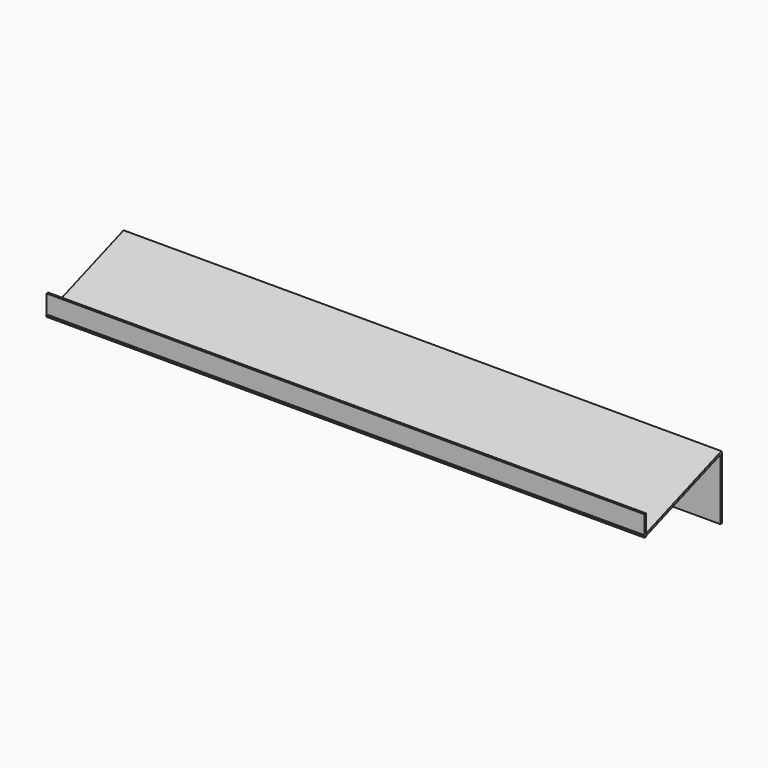
from build123d import *

# Parameters (mm, degrees)
F2_W     = 290
F2_H     = 50
F6_DEPTH = 1
F5_W     = 290
F5_H     = 10
F7_DEPTH = 1
F0_W     = 290
F0_H     = 30
F8_DEPTH = 1


with BuildPart() as f6:
    # F2 (on face) → F6 (new body)
    with BuildSketch(Plane(origin=(0, -9.641814, 26.490667), x_dir=(1, 0, 0), z_dir=(0, 0.34202, -0.939693))):
        with Locations((145, 14.739396)):
            Rectangle(F2_W, F2_H)
    extrude(amount=-F6_DEPTH)

    # F5 (on face) → F7 (join)
    with BuildSketch(Plane(origin=(0, -46.984631, 0), x_dir=(-1, 0, 0), z_dir=(0, 1, 0))):
        with Locations((-145, 17.898993)):
            Rectangle(F5_W, F5_H)
    extrude(amount=F7_DEPTH)

    # F0 (on Front) → F8 (join)
    with BuildSketch(Plane.XZ):
        with Locations((145, 15)):
            Rectangle(F0_W, F0_H)
    extrude(amount=F8_DEPTH)


solid = f6.part
